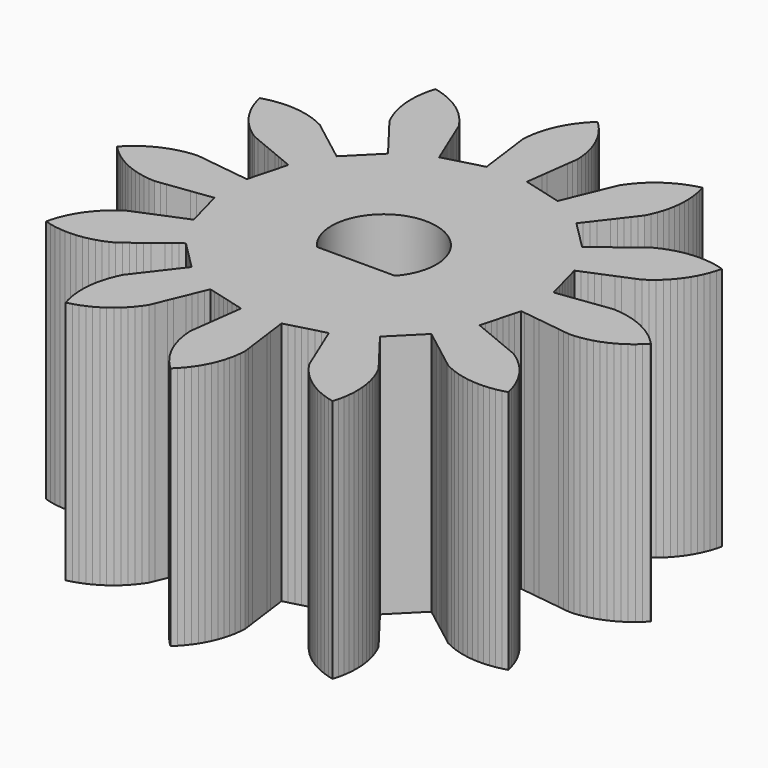
from build123d import *

# Parameters (mm, degrees)
F1_DEPTH = 7


with BuildPart() as f1:
    # F0 (on Top) → F1 (new body)
    with BuildSketch(Plane.XY):
        Polygon((3.425814, -0.596127), (3.430637, -0.578127), (3.534461, -0.591796), (3.690197, -0.612299), (3.845933, -0.632802), (4.001668, -0.653305), (4.157404, -0.673808), (4.31314, -0.694311), (4.468876, -0.714814), (4.624612, -0.735317), (4.780347, -0.75582), (4.936083, -0.776323), (5.098596, -0.775114), (5.25994, -0.755627), (5.430209, -0.725329), (5.587182, -0.68324), (5.735826, -0.634675), (5.885897, -0.572301), (6.026861, -0.504603), (6.167421, -0.423028), (6.298254, -0.337373), (6.426861, -0.238015), (6.545288, -0.135894), (6.659706, -0.02048), (6.68001, 0), (6.565591, 0.115414), (6.449682, 0.220384), (6.321075, 0.319742), (6.192364, 0.408552), (6.051803, 0.490127), (5.912527, 0.561232), (5.762457, 0.623607), (5.615037, 0.675771), (5.458064, 0.71786), (5.305063, 0.750177), (5.143918, 0.77125), (4.987995, 0.783157), (4.832259, 0.762654), (4.676524, 0.742151), (4.520788, 0.721648), (4.365052, 0.701145), (4.209316, 0.680642), (4.05358, 0.660139), (3.897845, 0.639636), (3.742109, 0.619133), (3.586373, 0.59863), (3.430637, 0.578127), (3.388575, 0.735107), (3.346512, 0.892086), (3.30445, 1.049066), (3.262387, 1.206045), (3.220325, 1.363024), (3.178262, 1.520004), (3.1362, 1.676983), (3.131377, 1.694983), (3.276499, 1.755095), (3.421622, 1.815206), (3.566745, 1.875318), (3.711867, 1.93543), (3.85699, 1.995542), (4.002113, 2.055654), (4.147235, 2.115765), (4.292358, 2.175877), (4.437481, 2.235989), (4.582603, 2.296101), (4.716656, 2.387979), (4.840702, 2.483196), (4.961502, 2.591912), (5.071944, 2.702621), (5.177392, 2.826284), (5.272309, 2.950559), (5.360572, 3.08702), (5.438315, 3.222703), (5.507858, 3.369589), (5.567075, 3.51432), (5.61669, 3.669078), (5.656352, 3.820342), (5.499556, 3.863084), (5.346691, 3.896037), (5.185635, 3.91778), (5.029763, 3.930335), (4.902189, 3.932306), (4.739879, 3.924098), (4.584352, 3.907812), (4.424533, 3.878323), (4.272501, 3.841718), (4.11795, 3.791459), (3.972055, 3.735171), (3.82546, 3.665017), (3.693412, 3.570279), (3.564076, 3.471873), (3.425587, 3.365697), (3.300967, 3.270072), (3.176348, 3.174448), (3.051728, 3.078824), (2.927108, 2.9832), (2.802489, 2.887576), (2.677869, 2.791952), (2.55325, 2.696328), (2.438333, 2.811245), (2.323416, 2.926162), (2.208499, 3.041079), (2.093582, 3.155996), (1.978665, 3.270913), (1.863748, 3.38583), (1.748831, 3.500747), (1.735654, 3.513924), (1.831278, 3.638543), (1.926902, 3.763163), (2.022526, 3.887782), (2.11815, 4.012402), (2.213774, 4.137022), (2.309398, 4.261641), (2.405023, 4.386261), (2.500647, 4.510881), (2.596271, 4.6355), (2.691895, 4.76012), (2.762048, 4.906716), (2.821867, 5.051199), (2.872125, 5.20575), (2.912416, 5.356847), (2.941905, 5.516666), (2.961968, 5.671751), (2.970176, 5.834061), (2.969661, 5.990437), (2.956445, 6.152415), (2.935363, 6.307365), (2.900951, 6.466197), (2.859668, 6.617026), (2.702508, 6.575644), (2.553646, 6.527749), (2.403296, 6.466051), (2.262029, 6.398989), (2.121102, 6.318047), (1.989885, 6.232983), (1.860832, 6.134205), (1.741947, 6.032618), (1.62701, 5.917721), (1.522522, 5.801376), (1.4237, 5.672357), (1.335427, 5.543277), (1.275315, 5.398155), (1.215203, 5.253032), (1.155091, 5.107909), (1.09498, 4.962787), (1.034868, 4.817664), (0.974756, 4.672541), (0.914644, 4.527419), (0.854532, 4.382296), (0.794421, 4.237173), (0.734309, 4.092051), (0.577329, 4.134113), (0.42035, 4.176176), (0.26337, 4.218238), (0.106391, 4.260301), (-0.050588, 4.302363), (-0.207568, 4.344426), (-0.364547, 4.386488), (-0.382547, 4.391311), (-0.362044, 4.547047), (-0.341541, 4.702783), (-0.321038, 4.858519), (-0.300535, 5.014254), (-0.280032, 5.16999), (-0.259529, 5.325726), (-0.239026, 5.481462), (-0.218523, 5.637198), (-0.19802, 5.792933), (-0.177517, 5.948669), (-0.19006, 6.110702), (-0.210497, 6.265737), (-0.244247, 6.424711), (-0.284903, 6.575711), (-0.339274, 6.728863), (-0.399442, 6.873201), (-0.473489, 7.017869), (-0.552122, 7.153038), (-0.644557, 7.286707), (-0.74029, 7.410356), (-0.849507, 7.530703), (-0.960674, 7.640684), (-1.076088, 7.526265), (-1.181058, 7.410356), (-1.280416, 7.281749), (-1.369226, 7.153038), (-1.450801, 7.012477), (-1.521906, 6.873201), (-1.584281, 6.723131), (-1.636445, 6.575711), (-1.678534, 6.418738), (-1.710851, 6.265737), (-1.731924, 6.104592), (-1.743831, 5.948669), (-1.723328, 5.792933), (-1.702825, 5.637198), (-1.682322, 5.481462), (-1.661819, 5.325726), (-1.641316, 5.16999), (-1.620813, 5.014254), (-1.60031, 4.858519), (-1.579807, 4.702783), (-1.559304, 4.547047), (-1.538801, 4.391311), (-1.695781, 4.349249), (-1.85276, 4.307186), (-2.00974, 4.265124), (-2.166719, 4.223061), (-2.323698, 4.180999), (-2.480678, 4.138936), (-2.637657, 4.096874), (-2.655657, 4.092051), (-2.715769, 4.237173), (-2.77588, 4.382296), (-2.835992, 4.527419), (-2.896104, 4.672541), (-2.956216, 4.817664), (-3.016328, 4.962787), (-3.076439, 5.107909), (-3.136551, 5.253032), (-3.196663, 5.398155), (-3.256775, 5.543277), (-3.348653, 5.67733), (-3.44387, 5.801376), (-3.552586, 5.922176), (-3.663295, 6.032618), (-3.786958, 6.138066), (-3.911233, 6.232983), (-4.047694, 6.321246), (-4.183377, 6.398989), (-4.330263, 6.468532), (-4.474994, 6.527749), (-4.629752, 6.577364), (-4.781016, 6.617026), (-4.823758, 6.46023), (-4.856711, 6.307365), (-4.878454, 6.146309), (-4.891009, 5.990437), (-4.891375, 5.82792), (-4.883316, 5.671751), (-4.862298, 5.510599), (-4.833764, 5.356847), (-4.791728, 5.19986), (-4.743215, 5.051199), (-4.680892, 4.901107), (-4.613243, 4.76012), (-4.517619, 4.6355), (-4.421995, 4.510881), (-4.326371, 4.386261), (-4.230746, 4.261641), (-4.135122, 4.137022), (-4.039498, 4.012402), (-3.943874, 3.887782), (-3.84825, 3.763163), (-3.752626, 3.638543), (-3.657002, 3.513924), (-3.771919, 3.399007), (-3.886836, 3.28409), (-4.001753, 3.169173), (-4.11667, 3.054256), (-4.231587, 2.939339), (-4.346504, 2.824422), (-4.461421, 2.709505), (-4.474598, 2.696328), (-4.599217, 2.791952), (-4.723837, 2.887576), (-4.848456, 2.9832), (-4.973076, 3.078824), (-5.097696, 3.174448), (-5.222315, 3.270072), (-5.346935, 3.365697), (-5.471555, 3.461321), (-5.596174, 3.556945), (-5.720794, 3.652569), (-5.86739, 3.722722), (-6.011873, 3.782541), (-6.166424, 3.832799), (-6.317521, 3.87309), (-6.47734, 3.902579), (-6.632425, 3.922642), (-6.794735, 3.93085), (-6.823537, 3.932306), (-6.985987, 3.927652), (-7.141833, 3.914773), (-7.302259, 3.888788), (-7.455056, 3.855519), (-7.5777, 3.820342), (-7.536318, 3.663182), (-7.488423, 3.51432), (-7.426725, 3.36397), (-7.359663, 3.222703), (-7.278721, 3.081776), (-7.193657, 2.950559), (-7.094879, 2.821506), (-6.993292, 2.702621), (-6.878395, 2.587684), (-6.76205, 2.483196), (-6.633031, 2.384374), (-6.503951, 2.296101), (-6.358829, 2.235989), (-6.213706, 2.175877), (-6.068583, 2.115765), (-5.923461, 2.055654), (-5.778338, 1.995542), (-5.633215, 1.93543), (-5.488093, 1.875318), (-5.34297, 1.815206), (-5.197847, 1.755095), (-5.052725, 1.694983), (-5.094787, 1.538003), (-5.13685, 1.381024), (-5.178912, 1.224044), (-5.220975, 1.067065), (-5.263037, 0.910086), (-5.3051, 0.753106), (-5.347162, 0.596127), (-5.351985, 0.578127), (-5.507721, 0.59863), (-5.663457, 0.619133), (-5.819193, 0.639636), (-5.974928, 0.660139), (-6.130664, 0.680642), (-6.2864, 0.701145), (-6.442136, 0.721648), (-6.597872, 0.742151), (-6.753607, 0.762654), (-6.909343, 0.783157), (-7.071376, 0.770614), (-7.226411, 0.750177), (-7.385385, 0.716427), (-7.536385, 0.675771), (-7.689537, 0.6214), (-7.833875, 0.561232), (-7.978543, 0.487185), (-8.113712, 0.408552), (-8.247381, 0.316117), (-8.37103, 0.220384), (-8.491377, 0.111167), (-8.601358, 0), (-8.486939, -0.115414), (-8.37103, -0.220384), (-8.242423, -0.319742), (-8.113712, -0.408552), (-7.973151, -0.490127), (-7.833875, -0.561232), (-7.683805, -0.623607), (-7.536385, -0.675771), (-7.379412, -0.71786), (-7.226411, -0.750177), (-7.065266, -0.77125), (-6.909343, -0.783157), (-6.753607, -0.762654), (-6.597872, -0.742151), (-6.442136, -0.721648), (-6.2864, -0.701145), (-6.130664, -0.680642), (-5.974928, -0.660139), (-5.819193, -0.639636), (-5.663457, -0.619133), (-5.507721, -0.59863), (-5.351985, -0.578127), (-5.309923, -0.735107), (-5.26786, -0.892086), (-5.225798, -1.049066), (-5.183735, -1.206045), (-5.141673, -1.363024), (-5.09961, -1.520004), (-5.057548, -1.676983), (-5.052725, -1.694983), (-5.197847, -1.755095), (-5.34297, -1.815206), (-5.488093, -1.875318), (-5.633215, -1.93543), (-5.778338, -1.995542), (-5.923461, -2.055654), (-6.068583, -2.115765), (-6.213706, -2.175877), (-6.358829, -2.235989), (-6.503951, -2.296101), (-6.638004, -2.387979), (-6.76205, -2.483196), (-6.88285, -2.591912), (-6.993292, -2.702621), (-7.09874, -2.826284), (-7.193657, -2.950559), (-7.28192, -3.08702), (-7.359663, -3.222703), (-7.429206, -3.369589), (-7.488423, -3.51432), (-7.538038, -3.669078), (-7.5777, -3.820342), (-7.420904, -3.863084), (-7.268039, -3.896037), (-7.106983, -3.91778), (-6.951111, -3.930335), (-6.788594, -3.930701), (-6.632425, -3.922642), (-6.471273, -3.901624), (-6.317521, -3.87309), (-6.160534, -3.831054), (-6.011873, -3.782541), (-5.861781, -3.720218), (-5.720794, -3.652569), (-5.596174, -3.556945), (-5.471555, -3.461321), (-5.346935, -3.365697), (-5.222315, -3.270072), (-5.097696, -3.174448), (-4.973076, -3.078824), (-4.848456, -2.9832), (-4.723837, -2.887576), (-4.599217, -2.791952), (-4.474598, -2.696328), (-4.359681, -2.811245), (-4.244764, -2.926162), (-4.129847, -3.041079), (-4.01493, -3.155996), (-3.900013, -3.270913), (-3.785096, -3.38583), (-3.670179, -3.500747), (-3.657002, -3.513924), (-3.752626, -3.638543), (-3.84825, -3.763163), (-3.943874, -3.887782), (-4.039498, -4.012402), (-4.135122, -4.137022), (-4.230746, -4.261641), (-4.326371, -4.386261), (-4.421995, -4.510881), (-4.517619, -4.6355), (-4.613243, -4.76012), (-4.683396, -4.906716), (-4.743215, -5.051199), (-4.793473, -5.20575), (-4.833764, -5.356847), (-4.863253, -5.516666), (-4.883316, -5.671751), (-4.891524, -5.834061), (-4.891009, -5.990437), (-4.877793, -6.152415), (-4.856711, -6.307365), (-4.822299, -6.466197), (-4.781016, -6.617026), (-4.623856, -6.575644), (-4.474994, -6.527749), (-4.324644, -6.466051), (-4.183377, -6.398989), (-4.04245, -6.318047), (-3.911233, -6.232983), (-3.78218, -6.134205), (-3.663295, -6.032618), (-3.548358, -5.917721), (-3.44387, -5.801376), (-3.345048, -5.672357), (-3.256775, -5.543277), (-3.196663, -5.398155), (-3.136551, -5.253032), (-3.076439, -5.107909), (-3.016328, -4.962787), (-2.956216, -4.817664), (-2.896104, -4.672541), (-2.835992, -4.527419), (-2.77588, -4.382296), (-2.715769, -4.237173), (-2.655657, -4.092051), (-2.498677, -4.134113), (-2.341698, -4.176176), (-2.184718, -4.218238), (-2.027739, -4.260301), (-1.87076, -4.302363), (-1.71378, -4.344426), (-1.556801, -4.386488), (-1.538801, -4.391311), (-1.559304, -4.547047), (-1.579807, -4.702783), (-1.60031, -4.858519), (-1.620813, -5.014254), (-1.641316, -5.16999), (-1.661819, -5.325726), (-1.682322, -5.481462), (-1.702825, -5.637198), (-1.723328, -5.792933), (-1.743831, -5.948669), (-1.731288, -6.110702), (-1.710851, -6.265737), (-1.677101, -6.424711), (-1.636445, -6.575711), (-1.582074, -6.728863), (-1.521906, -6.873201), (-1.447859, -7.017869), (-1.369226, -7.153038), (-1.276791, -7.286707), (-1.181058, -7.410356), (-1.071841, -7.530703), (-0.960674, -7.640684), (-0.84526, -7.526265), (-0.74029, -7.410356), (-0.640932, -7.281749), (-0.552122, -7.153038), (-0.470547, -7.012477), (-0.399442, -6.873201), (-0.337067, -6.723131), (-0.284903, -6.575711), (-0.242814, -6.418738), (-0.210497, -6.265737), (-0.189424, -6.104592), (-0.177517, -5.948669), (-0.19802, -5.792933), (-0.218523, -5.637198), (-0.239026, -5.481462), (-0.259529, -5.325726), (-0.280032, -5.16999), (-0.300535, -5.014254), (-0.321038, -4.858519), (-0.341541, -4.702783), (-0.362044, -4.547047), (-0.382547, -4.391311), (-0.225567, -4.349249), (-0.068588, -4.307186), (0.088392, -4.265124), (0.245371, -4.223061), (0.40235, -4.180999), (0.55933, -4.138936), (0.716309, -4.096874), (0.734309, -4.092051), (0.794421, -4.237173), (0.854532, -4.382296), (0.914644, -4.527419), (0.974756, -4.672541), (1.034868, -4.817664), (1.09498, -4.962787), (1.155091, -5.107909), (1.215203, -5.253032), (1.275315, -5.398155), (1.335427, -5.543277), (1.427305, -5.67733), (1.522522, -5.801376), (1.631238, -5.922176), (1.741947, -6.032618), (1.86561, -6.138066), (1.989885, -6.232983), (2.126346, -6.321246), (2.262029, -6.398989), (2.408915, -6.468532), (2.553646, -6.527749), (2.708404, -6.577364), (2.859668, -6.617026), (2.90241, -6.46023), (2.935363, -6.307365), (2.957106, -6.146309), (2.969661, -5.990437), (2.970027, -5.82792), (2.961968, -5.671751), (2.94095, -5.510599), (2.912416, -5.356847), (2.87038, -5.19986), (2.821867, -5.051199), (2.759544, -4.901107), (2.691895, -4.76012), (2.596271, -4.6355), (2.500647, -4.510881), (2.405023, -4.386261), (2.309398, -4.261641), (2.213774, -4.137022), (2.11815, -4.012402), (2.022526, -3.887782), (1.926902, -3.763163), (1.831278, -3.638543), (1.735654, -3.513924), (1.850571, -3.399007), (1.965488, -3.28409), (2.080405, -3.169173), (2.195322, -3.054256), (2.310239, -2.939339), (2.425156, -2.824422), (2.540073, -2.709505), (2.55325, -2.696328), (2.677869, -2.791952), (2.802489, -2.887576), (2.927108, -2.9832), (3.051728, -3.078824), (3.176348, -3.174448), (3.300967, -3.270072), (3.425587, -3.365697), (3.550207, -3.461321), (3.674826, -3.556945), (3.799446, -3.652569), (3.946042, -3.722722), (4.090525, -3.782541), (4.245076, -3.832799), (4.396173, -3.87309), (4.555992, -3.902579), (4.711077, -3.922642), (4.873387, -3.93085), (5.029763, -3.930335), (5.191741, -3.917119), (5.346691, -3.896037), (5.505523, -3.861625), (5.656352, -3.820342), (5.61497, -3.663182), (5.567075, -3.51432), (5.505377, -3.36397), (5.438315, -3.222703), (5.357373, -3.081776), (5.272309, -2.950559), (5.173531, -2.821506), (5.071944, -2.702621), (4.957047, -2.587684), (4.840702, -2.483196), (4.711683, -2.384374), (4.582603, -2.296101), (4.437481, -2.235989), (4.292358, -2.175877), (4.147235, -2.115765), (4.002113, -2.055654), (3.85699, -1.995542), (3.711867, -1.93543), (3.566745, -1.875318), (3.421622, -1.815206), (3.276499, -1.755095), (3.131377, -1.694983), (3.173439, -1.538003), (3.215502, -1.381024), (3.257564, -1.224044), (3.299627, -1.067065), (3.341689, -0.910086), (3.383752, -0.753106), align=None)
        with BuildLine():
            ThreePointArc((-2.078238, -1.005292), (-1.495437, 1.395966), (0.539796, -0.005292))
            ThreePointArc((0.539796, -0.005292), (0.441055, -0.540525), (0.15783, -1.005292))
            ThreePointArc((0.15783, -1.005292), (-0.960204, -1.505292), (-2.078238, -1.005292))
        make_face(mode=Mode.SUBTRACT)
        with BuildLine():
            Line((0.15783, -1.005292), (-2.078238, -1.005292))
            ThreePointArc((-2.078238, -1.005292), (-0.960204, -1.505292), (0.15783, -1.005292))
        make_face()
    extrude(amount=F1_DEPTH)


solid = f1.part
